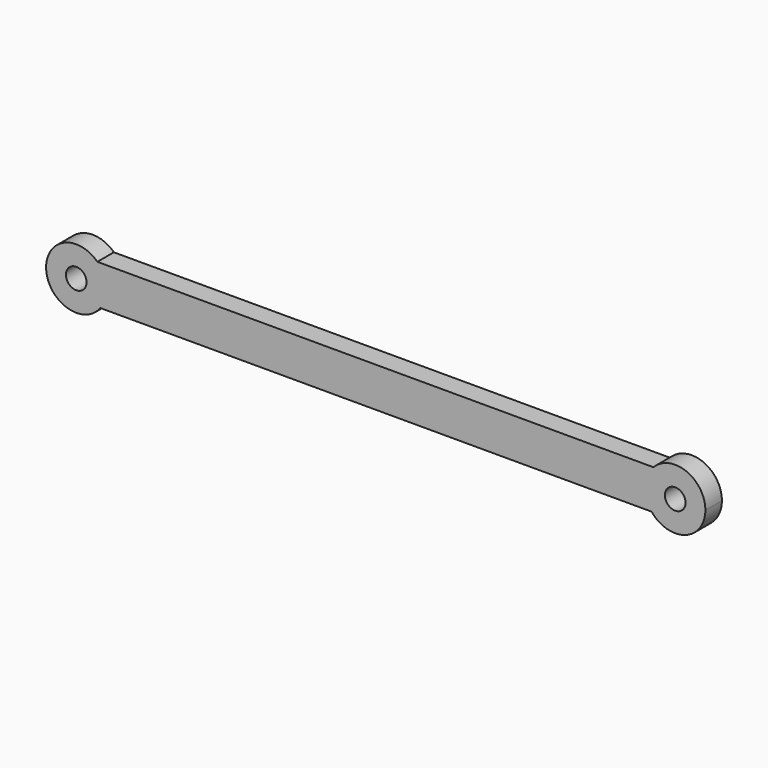
from build123d import *

# Parameters (mm, degrees)
F0_R     = 1.651
F1_DEPTH = 3.302


with BuildPart() as f1:
    # F0 (on Front) → F1 (new body)
    with BuildSketch(Plane.XZ):
        with BuildLine():
            Line((52.929746, 6.35), (-35.970254, 6.35))
            ThreePointArc((-35.970254, 6.35), (-34.896008, 4.771231), (-34.518209, 2.899391))
            ThreePointArc((-34.518209, 2.899391), (-34.766614, 1.371027), (-35.486256, 0))
            Line((-35.486256, 0), (52.641847, 0))
            ThreePointArc((52.641847, 0), (51.592679, 3.229094), (52.929746, 6.35))
        make_face()
        with BuildLine():
            ThreePointArc((-34.518209, 2.899391), (-34.896008, 4.771231), (-35.970254, 6.35))
            ThreePointArc((-35.970254, 6.35), (-44.156252, 2.532616), (-35.486256, 0))
            ThreePointArc((-35.486256, 0), (-34.766614, 1.371027), (-34.518209, 2.899391))
        make_face()
        with Locations((-39.344209, 2.899391)):
            Circle(F0_R, mode=Mode.SUBTRACT)
        with BuildLine():
            ThreePointArc((61.239726, 3.010515), (58.213252, 7.488459), (52.929746, 6.35))
            ThreePointArc((52.929746, 6.35), (51.592679, 3.229094), (52.641847, 0))
            ThreePointArc((52.641847, 0), (58.008591, -1.544337), (61.239726, 3.010515))
        make_face()
        with Locations((56.413726, 3.010515)):
            Circle(F0_R, mode=Mode.SUBTRACT)
    extrude(amount=F1_DEPTH)


solid = f1.part
